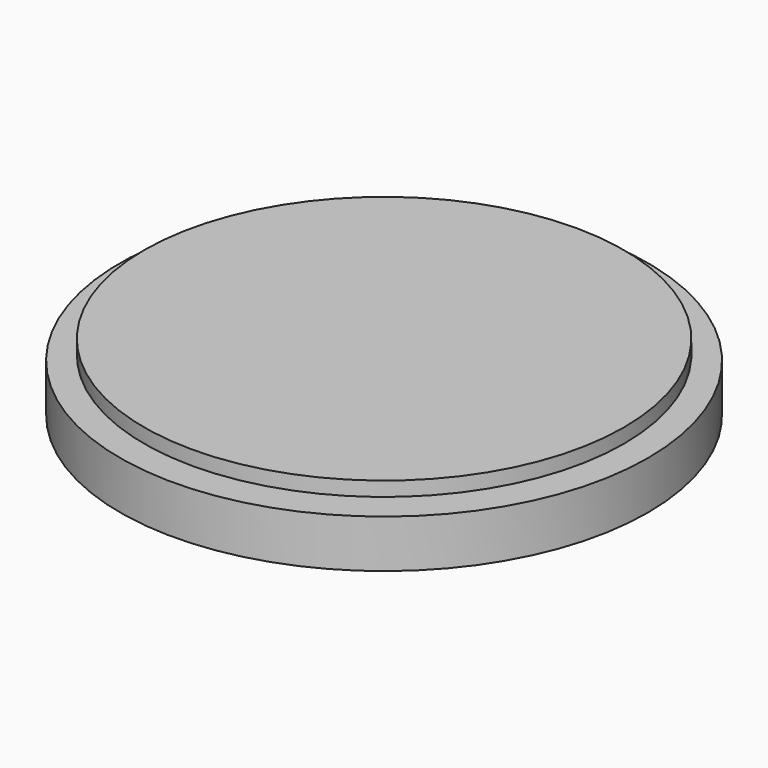
from build123d import *

# Parameters (mm, degrees)
F2_R = 3


with BuildPart() as f1:
    # F0 (on Front) → F1 (revolve)
    with BuildSketch(Plane.XZ):
        Polygon((50, 14), (0, 14), (0, 0), (4.5, 0), (4.5, 11), (50, 11), align=None)
        Polygon((55, 10), (11, 10), (11, 4), (5, 4), (5, 0), (55, 0), align=None)
    revolve(axis=Axis((0, 0, 7), (0, 0, -1)))

    # F2
    f2_edges = [f1.edges().sort_by_distance(p)[0] for p in [
        (-4.5, 0, 11),
    ]]
    fillet(f2_edges, radius=F2_R)


solid = f1.part
